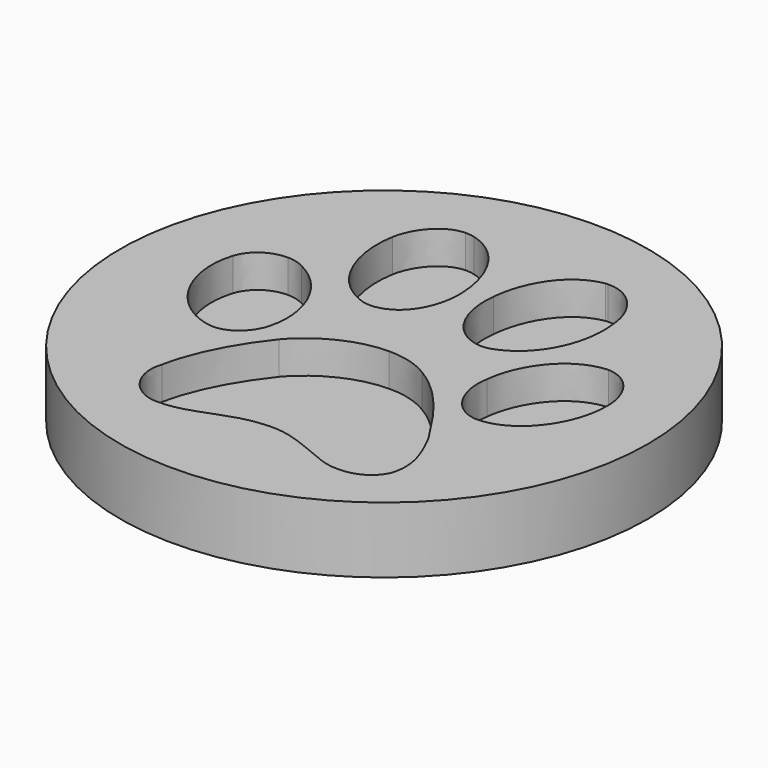
from build123d import *

# Parameters (mm, degrees)
SKETCH001_R  = 20
PAD_DEPTH    = 5
POCKET_DEPTH = 2.5


with BuildPart() as part:
    # Sketch001 (on DatumPlane) → Pad (new body)
    with BuildSketch(Plane.XY):
        Circle(SKETCH001_R)
    extrude(amount=-PAD_DEPTH)

    # Sketch (on DatumPlane) → Pocket (cut)
    with BuildSketch(Plane(origin=(-14.5, 14.5, 0), x_dir=(1, 0, 0), z_dir=(0, 0, 1))):
        with BuildLine():
            add(Edge.make_bspline(
                [(19.881144, 0), (19.819056, -0.000794), (19.75485, -0.003847), (19.69135, -0.008819)],
                knots=[0, 0, 0, 0, 1, 1, 1, 1], degree=3))
            add(Edge.make_bspline(
                [(19.69135, -0.008819), (17.16405, -0.4451), (15.774106, -3.117779), (15.573022, -5.474688)],
                knots=[0, 0, 0, 0, 1, 1, 1, 1], degree=3))
            add(Edge.make_bspline(
                [(15.573022, -5.474688), (15.278806, -7.61365), (16.221428, -10.361789), (18.569517, -10.841567)],
                knots=[0, 0, 0, 0, 1, 1, 1, 1], degree=3))
            add(Edge.make_bspline(
                [(18.569517, -10.841567), (18.9103, -10.906478), (19.263783, -10.876844), (19.596806, -10.786533)],
                knots=[0, 0, 0, 0, 1, 1, 1, 1], degree=3))
            add(Edge.make_bspline(
                [(19.596806, -10.786533), (22.424672, -9.838267), (23.689733, -6.489136), (23.281217, -3.715456)],
                knots=[0, 0, 0, 0, 1, 1, 1, 1], degree=3))
            add(Edge.make_bspline(
                [(23.281217, -3.715456), (23.161978, -1.923627), (21.811544, 0.024624), (19.881144, 0)],
                knots=[0, 0, 0, 0, 1, 1, 1, 1], degree=3))
        make_face()
        with BuildLine():
            add(Edge.make_bspline(
                [(9.165872, -0.114653), (7.593894, -0.153233), (6.369756, -1.747167), (6.120694, -3.245556)],
                knots=[0, 0, 0, 0, 1, 1, 1, 1], degree=3))
            add(Edge.make_bspline(
                [(6.120694, -3.245556), (5.595691, -6.21411), (6.946053, -9.902472), (10.038644, -10.841567)],
                knots=[0, 0, 0, 0, 1, 1, 1, 1], degree=3))
            add(Edge.make_bspline(
                [(10.038644, -10.841567), (10.328628, -10.904361), (10.627783, -10.910711), (10.920589, -10.865556)],
                knots=[0, 0, 0, 0, 1, 1, 1, 1], degree=3))
            add(Edge.make_bspline(
                [(10.920589, -10.865556), (13.01115, -10.517011), (13.896622, -8.173861), (13.809133, -6.281632)],
                knots=[0, 0, 0, 0, 1, 1, 1, 1], degree=3))
            add(Edge.make_bspline(
                [(13.809133, -6.281632), (13.746339, -3.785941), (12.449528, -0.900148), (9.858022, -0.198473)],
                knots=[0, 0, 0, 0, 1, 1, 1, 1], degree=3))
            add(Edge.make_bspline(
                [(9.858022, -0.198473), (9.620956, -0.135615), (9.390239, -0.109142), (9.165872, -0.114653)],
                knots=[0, 0, 0, 0, 1, 1, 1, 1], degree=3))
        make_face()
        with BuildLine():
            add(Edge.make_bspline(
                [(26.729267, -8.546042), (24.010761, -8.709025), (22.146683, -11.421886), (21.880689, -13.954831)],
                knots=[0, 0, 0, 0, 1, 1, 1, 1], degree=3))
            add(Edge.make_bspline(
                [(21.880689, -13.954831), (21.521561, -15.781514), (22.495228, -18.225558), (24.580144, -18.371608)],
                knots=[0, 0, 0, 0, 1, 1, 1, 1], degree=3))
            add(Edge.make_bspline(
                [(24.580144, -18.371608), (27.486328, -18.335625), (29.469644, -15.229769), (29.551489, -12.557125)],
                knots=[0, 0, 0, 0, 1, 1, 1, 1], degree=3))
            add(Edge.make_bspline(
                [(29.551489, -12.557125), (29.735639, -10.789708), (28.694239, -8.644114), (26.729267, -8.546042)],
                knots=[0, 0, 0, 0, 1, 1, 1, 1], degree=3))
        make_face()
        with BuildLine():
            add(Edge.make_bspline(
                [(2.932289, -9.148586), (1.775601, -9.138708), (0.638034, -9.831564), (0.260068, -11.007019)],
                knots=[0, 0, 0, 0, 1, 1, 1, 1], degree=3))
            add(Edge.make_bspline(
                [(0.260068, -11.007019), (-0.748383, -14.152386), (1.276632, -18.135953), (4.607983, -18.797058)],
                knots=[0, 0, 0, 0, 1, 1, 1, 1], degree=3))
            add(Edge.make_bspline(
                [(4.607983, -18.797058), (5.998351, -19.034831), (7.219809, -17.967325), (7.564826, -16.682508)],
                knots=[0, 0, 0, 0, 1, 1, 1, 1], degree=3))
            add(Edge.make_bspline(
                [(7.564826, -16.682508), (8.295076, -13.934369), (6.794712, -10.743847), (4.255206, -9.496425)],
                knots=[0, 0, 0, 0, 1, 1, 1, 1], degree=3))
            add(Edge.make_bspline(
                [(4.255206, -9.496425), (3.841538, -9.264297), (3.384973, -9.152114), (2.932289, -9.148586)],
                knots=[0, 0, 0, 0, 1, 1, 1, 1], degree=3))
        make_face()
        with BuildLine():
            add(Edge.make_bspline(
                [(15.120761, -14.788092), (12.853106, -14.793031), (10.550172, -15.943792), (9.081911, -17.656881)],
                knots=[0, 0, 0, 0, 1, 1, 1, 1], degree=3))
            add(Edge.make_bspline(
                [(9.081911, -17.656881), (7.495822, -19.653603), (6.196753, -21.976997), (5.688542, -24.496536)],
                knots=[0, 0, 0, 0, 1, 1, 1, 1], degree=3))
            add(Edge.make_bspline(
                [(5.688542, -24.496536), (5.07111, -26.309814), (6.470509, -28.397553), (8.409517, -28.410253)],
                knots=[0, 0, 0, 0, 1, 1, 1, 1], degree=3))
            add(Edge.make_bspline(
                [(8.409517, -28.410253), (10.742083, -28.474458), (12.746567, -26.872847), (15.065728, -26.754314)],
                knots=[0, 0, 0, 0, 1, 1, 1, 1], degree=3))
            add(Edge.make_bspline(
                [(15.065728, -26.754314), (17.033522, -26.454453), (18.795294, -27.477508), (20.564828, -28.147786)],
                knots=[0, 0, 0, 0, 1, 1, 1, 1], degree=3))
            add(Edge.make_bspline(
                [(20.564828, -28.147786), (22.071189, -28.791958), (24.152578, -28.545014), (24.921633, -26.923647)],
                knots=[0, 0, 0, 0, 1, 1, 1, 1], degree=3))
            add(Edge.make_bspline(
                [(24.921633, -26.923647), (25.526294, -25.271942), (24.635883, -23.509464), (23.898578, -22.042614)],
                knots=[0, 0, 0, 0, 1, 1, 1, 1], degree=3))
            add(Edge.make_bspline(
                [(23.898578, -22.042614), (22.394333, -19.660658), (20.782139, -17.157347), (18.315517, -15.670036)],
                knots=[0, 0, 0, 0, 1, 1, 1, 1], degree=3))
            add(Edge.make_bspline(
                [(18.315517, -15.670036), (17.327033, -15.057614), (16.228483, -14.785975), (15.120761, -14.788092)],
                knots=[0, 0, 0, 0, 1, 1, 1, 1], degree=3))
        make_face()
    extrude(amount=-POCKET_DEPTH, mode=Mode.SUBTRACT)


solid = part.part
